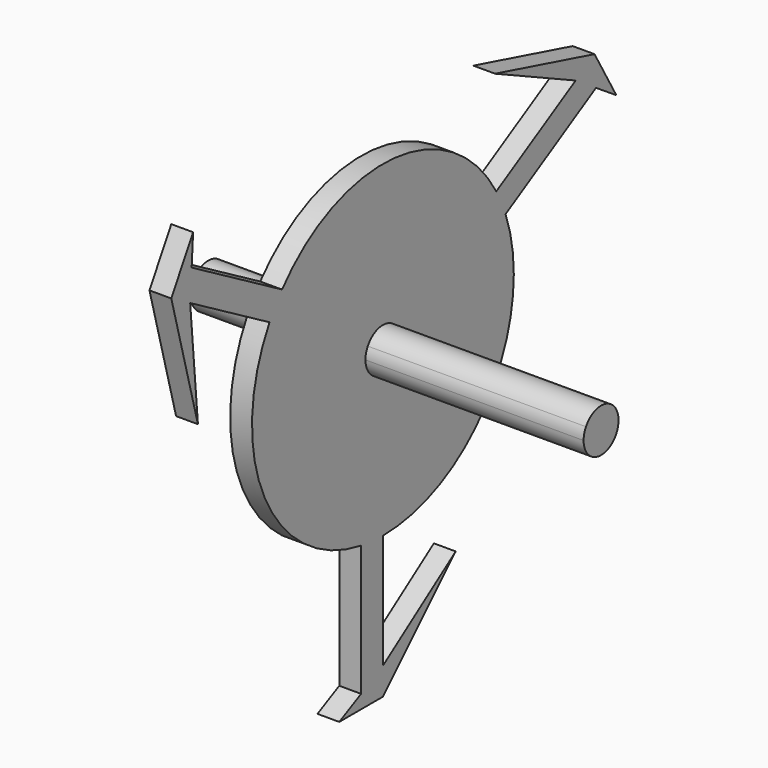
from build123d import *

# Parameters (mm, degrees)
F1_DEPTH = 2.54
F2_DEPTH = 27.94
F3_DEPTH = 17.78


with BuildPart() as f1:
    # F0 (on Right) → F1 (new body)
    with BuildSketch(Plane.YZ):
        with BuildLine():
            ThreePointArc((0, -19.05), (13.4703841816, -13.4703841816), (19.05, 0))
            ThreePointArc((19.05, 0), (18.748751681, 3.3744348271), (17.854534341, 6.6421459987))
            Line((17.854534341, 6.6421459987), (1.5875, -2.749630657))
            Line((1.5875, -2.749630657), (1.27, -2.1997045256))
            ThreePointArc((1.27, -2.1997045256), (0.6574003746, -2.4534515988), (0, -2.54))
            Line((0, -2.54), (0, -19.05))
        make_face()
        with BuildLine():
            Line((1.5875, -2.749630657), (17.854534341, 6.6421459987))
            ThreePointArc((17.854534341, 6.6421459987), (17.2365354597, 8.1119877556), (16.4977839421, 9.525))
            Line((16.4977839421, 9.525), (2.1997045256, 1.27))
            ThreePointArc((2.1997045256, 1.27), (2.4534515988, 0.6574003746), (2.54, 0))
            ThreePointArc((2.54, 0), (2.1997045256, -1.27), (1.27, -2.1997045256))
            Line((1.27, -2.1997045256), (1.5875, -2.749630657))
        make_face()
        with BuildLine():
            ThreePointArc((16.4977839421, 9.525), (17.2365354597, 8.1119877556), (17.854534341, 6.6421459987))
            Line((17.854534341, 6.6421459987), (31.0085480301, 14.236619343))
            Line((31.0085480301, 14.236619343), (28.0462327016, 16.1925))
            Line((28.0462327016, 16.1925), (16.4977839421, 9.525))
        make_face()
        with BuildLine():
            Line((0, -32.385), (0, -19.05))
            ThreePointArc((0, -19.05), (-1.5930802583, -18.9832714591), (-3.175, -18.7835533113))
            Line((-3.175, -18.7835533113), (-3.175, -33.9725))
            Line((-3.175, -33.9725), (0, -32.385))
        make_face()
        with BuildLine():
            ThreePointArc((-3.175, -18.7835533113), (-1.5930802583, -18.9832714591), (0, -19.05))
            Line((0, -19.05), (0, -2.54))
            ThreePointArc((0, -2.54), (-1.7960512242, -1.7960512242), (-2.54, 0))
            Line((-2.54, 0), (-3.175, 0))
            Line((-3.175, 0), (-3.175, -18.7835533113))
        make_face()
        with BuildLine():
            Line((2.1997045256, 1.27), (16.4977839421, 9.525))
            ThreePointArc((16.4977839421, 9.525), (1.5930802583, 18.9832714591), (-14.679534341, 12.1414073127))
            Line((-14.679534341, 12.1414073127), (1.5875, 2.749630657))
            Line((1.5875, 2.749630657), (1.27, 2.1997045256))
            ThreePointArc((1.27, 2.1997045256), (1.7960512242, 1.7960512242), (2.1997045256, 1.27))
        make_face()
        Polygon((28.0462327016, 16.1925), (31.0085480301, 14.236619343), (32.3833633586, 15.030369343), (30.7958633586, 17.78), align=None)
        Polygon((32.3833633586, 15.030369343), (31.0085480301, 14.236619343), (33.9708633586, 12.280738686), align=None)
        with BuildLine():
            ThreePointArc((-16.4977839421, 9.525), (-17.2365354597, -8.1119877556), (-3.175, -18.7835533113))
            Line((-3.175, -18.7835533113), (-3.175, 0))
            Line((-3.175, 0), (-2.54, 0))
            ThreePointArc((-2.54, 0), (-2.4534515988, 0.6574003746), (-2.1997045256, 1.27))
            Line((-2.1997045256, 1.27), (-16.4977839421, 9.525))
        make_face()
        Polygon((10.5906598886, -24.9693401114), (0, -32.385), (0, -35.56), align=None)
        Polygon((0, -35.56), (0, -32.385), (-3.175, -33.9725), (-3.175, -35.56), align=None)
        with BuildLine():
            Line((1.5875, 2.749630657), (-14.679534341, 12.1414073127))
            ThreePointArc((-14.679534341, 12.1414073127), (-15.6434552014, 10.8712837035), (-16.4977839421, 9.525))
            Line((-16.4977839421, 9.525), (-2.1997045256, 1.27))
            ThreePointArc((-2.1997045256, 1.27), (-0.6574003746, 2.4534515988), (1.27, 2.1997045256))
            Line((1.27, 2.1997045256), (1.5875, 2.749630657))
        make_face()
        with BuildLine():
            ThreePointArc((-16.4977839421, 9.525), (-15.6434552014, 10.8712837035), (-14.679534341, 12.1414073127))
            Line((-14.679534341, 12.1414073127), (-27.8335480301, 19.735880657))
            Line((-27.8335480301, 19.735880657), (-28.0462327016, 16.1925))
            Line((-28.0462327016, 16.1925), (-16.4977839421, 9.525))
        make_face()
        Polygon((16.3287529078, 21.6564505621), (28.0462327016, 16.1925), (30.7958633586, 17.78), align=None)
        Polygon((-3.175, -35.56), (-3.175, -33.9725), (-6.35, -35.56), align=None)
        Polygon((-28.0462327016, 16.1925), (-27.8335480301, 19.735880657), (-29.2083633586, 20.529630657), (-30.7958633586, 17.78), align=None)
        Polygon((-29.2083633586, 20.529630657), (-27.8335480301, 19.735880657), (-27.6208633586, 23.279261314), align=None)
        Polygon((-26.9194127965, 3.3128895493), (-28.0462327016, 16.1925), (-30.7958633586, 17.78), align=None)
    extrude(amount=F1_DEPTH)

    # F0 (on Right) → F2 (join)
    with BuildSketch(Plane.YZ):
        with BuildLine():
            Line((-2.1997045256, 1.27), (0, 0))
            Line((0, 0), (1.27, 2.1997045256))
            ThreePointArc((1.27, 2.1997045256), (-0.6574003746, 2.4534515988), (-2.1997045256, 1.27))
        make_face()
        with BuildLine():
            ThreePointArc((-2.1997045256, 1.27), (-2.4534515988, 0.6574003746), (-2.54, 0))
            Line((-2.54, 0), (0, 0))
            Line((0, 0), (-2.1997045256, 1.27))
        make_face()
        with BuildLine():
            ThreePointArc((-2.54, 0), (-1.7960512242, -1.7960512242), (0, -2.54))
            Line((0, -2.54), (0, 0))
            Line((0, 0), (-2.54, 0))
        make_face()
        with BuildLine():
            Line((0, 0), (0, -2.54))
            ThreePointArc((0, -2.54), (0.6574003746, -2.4534515988), (1.27, -2.1997045256))
            Line((1.27, -2.1997045256), (0, 0))
        make_face()
        with BuildLine():
            ThreePointArc((2.54, 0), (2.4534515988, 0.6574003746), (2.1997045256, 1.27))
            Line((2.1997045256, 1.27), (0, 0))
            Line((0, 0), (1.27, -2.1997045256))
            ThreePointArc((1.27, -2.1997045256), (2.1997045256, -1.27), (2.54, 0))
        make_face()
        with BuildLine():
            Line((0, 0), (2.1997045256, 1.27))
            ThreePointArc((2.1997045256, 1.27), (1.7960512242, 1.7960512242), (1.27, 2.1997045256))
            Line((1.27, 2.1997045256), (0, 0))
        make_face()
    extrude(amount=F2_DEPTH)

    # F0 (on Right) → F3 (join)
    with BuildSketch(Plane.YZ):
        with BuildLine():
            ThreePointArc((2.54, 0), (2.4534515988, 0.6574003746), (2.1997045256, 1.27))
            Line((2.1997045256, 1.27), (0, 0))
            Line((0, 0), (1.27, -2.1997045256))
            ThreePointArc((1.27, -2.1997045256), (2.1997045256, -1.27), (2.54, 0))
        make_face()
        with BuildLine():
            Line((0, 0), (0, -2.54))
            ThreePointArc((0, -2.54), (0.6574003746, -2.4534515988), (1.27, -2.1997045256))
            Line((1.27, -2.1997045256), (0, 0))
        make_face()
        with BuildLine():
            ThreePointArc((-2.54, 0), (-1.7960512242, -1.7960512242), (0, -2.54))
            Line((0, -2.54), (0, 0))
            Line((0, 0), (-2.54, 0))
        make_face()
        with BuildLine():
            ThreePointArc((-2.1997045256, 1.27), (-2.4534515988, 0.6574003746), (-2.54, 0))
            Line((-2.54, 0), (0, 0))
            Line((0, 0), (-2.1997045256, 1.27))
        make_face()
        with BuildLine():
            Line((-2.1997045256, 1.27), (0, 0))
            Line((0, 0), (1.27, 2.1997045256))
            ThreePointArc((1.27, 2.1997045256), (-0.6574003746, 2.4534515988), (-2.1997045256, 1.27))
        make_face()
        with BuildLine():
            Line((0, 0), (2.1997045256, 1.27))
            ThreePointArc((2.1997045256, 1.27), (1.7960512242, 1.7960512242), (1.27, 2.1997045256))
            Line((1.27, 2.1997045256), (0, 0))
        make_face()
    extrude(amount=-F3_DEPTH)


solid = f1.part
